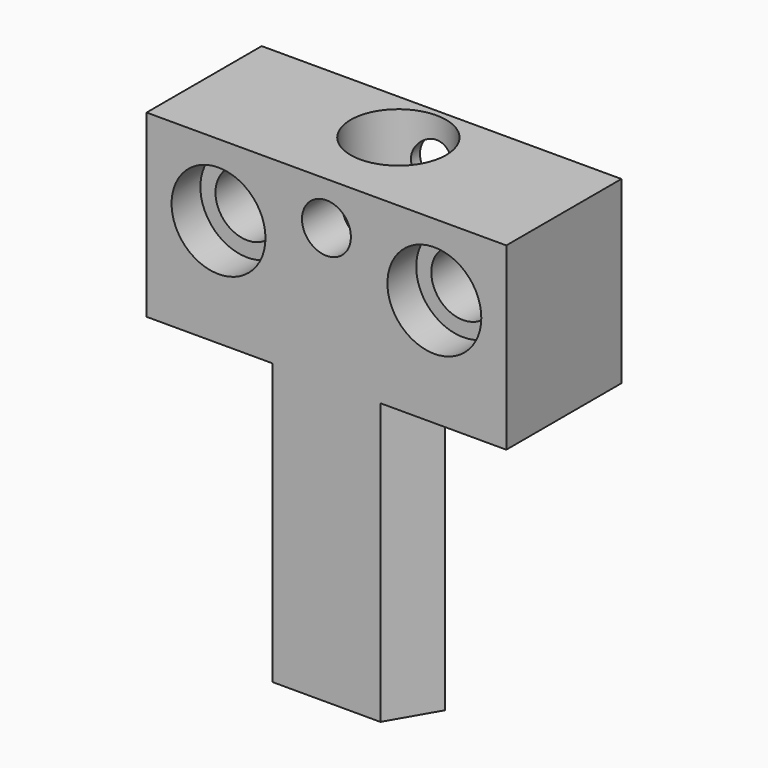
from build123d import *

# Parameters (mm, degrees)
F0_W           = 25.4
F0_H           = 10.16
F1_DEPTH       = 12.7
F3_DEPTH       = 19.812
F5_D           = 4.4958
F5_CBORE_D     = 6.6294
F5_CBORE_DEPTH = 2.54
F7_D           = 3.571875
F7_CBORE_D     = 6.746875
F7_CBORE_DEPTH = 6.1722
F8_D           = 3.4544
F8_DEPTH       = 6.35
F8_TIP         = 1.0378064612
F9_D           = 3.048


with BuildPart() as f1:
    # F0 (on Top) → F1 (new body)
    with BuildSketch(Plane.XY):
        with Locations((12.7, 5.08)):
            Rectangle(F0_W, F0_H)
    extrude(amount=F1_DEPTH)

    # F2 (on face) → F3 (join)
    with BuildSketch(Plane(origin=(0, 0, 0), x_dir=(1, 0, 0), z_dir=(0, 0, -1))):
        Polygon((8.8914105889, 0), (6.985, -3.302), (18.415, -3.302), (16.5085894111, 0), align=None)
    extrude(amount=F3_DEPTH)

    # F5 (through all)
    with Locations(Plane.XZ):
        with Locations((5.08, 7.62), (20.32, 7.62)):
            CounterBoreHole(F5_D / 2, F5_CBORE_D / 2, F5_CBORE_DEPTH)

    # F7 (through all)
    with Locations(Plane.XY.offset(12.7)):
        with Locations((12.7, 6.35)):
            CounterBoreHole(F7_D / 2, F7_CBORE_D / 2, F7_CBORE_DEPTH)

    # F8
    with Locations(Plane.XZ):
        with Locations((12.7, 9.652)):
            Hole(F8_D / 2, depth=F8_DEPTH)
            with Locations((0, 0, -(F8_DEPTH + F8_TIP / 2))):  # 118° drill point
                Cone(0, F8_D / 2, F8_TIP, mode=Mode.SUBTRACT)

    # F9 (through all)
    with Locations(Plane.XZ):
        with Locations((12.7, 9.652)):
            Hole(F9_D / 2)


solid = f1.part
